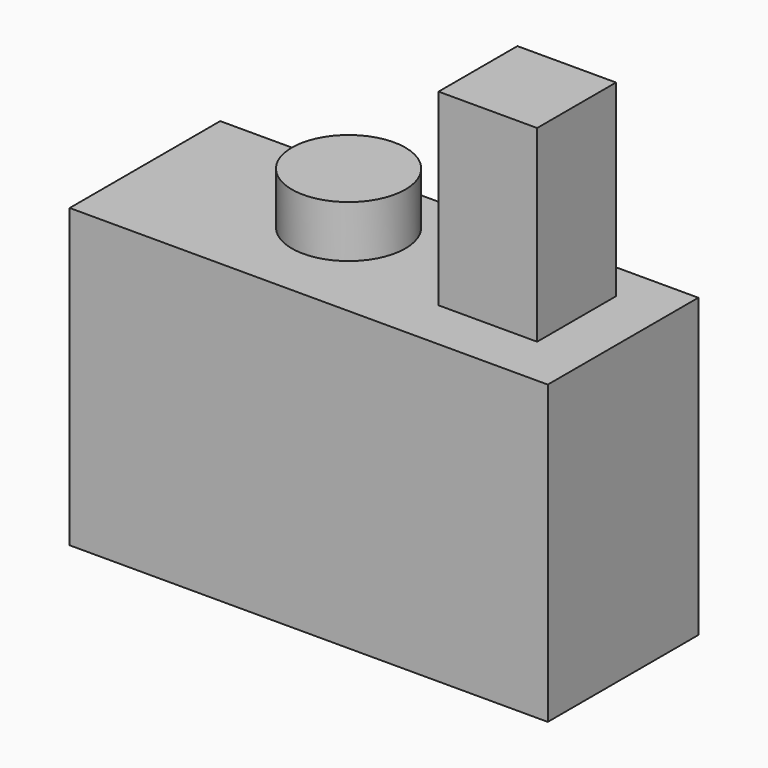
from build123d import *

# Parameters (mm, degrees)
F0_W     = 63.523911
F0_H     = 39.456863
F1_DEPTH = 25
F2_R     = 7.543039
F3_DEPTH = 6.9
F4_W     = 13.097714
F4_H     = 13.097714
F5_DEPTH = 25


with BuildPart() as f1:
    # F0 (on Front) → F1 (new body)
    with BuildSketch(Plane.XZ):
        with Locations((31.761955, -19.728431)):
            Rectangle(F0_W, F0_H)
    extrude(amount=F1_DEPTH)

    # F2 (on face) → F3 (join)
    with BuildSketch(Plane.XY):
        with Locations((25.3403, -10.352623)):
            Circle(F2_R)
    extrude(amount=F3_DEPTH)

    # F4 (on face) → F5 (join)
    with BuildSketch(Plane.XY):
        with Locations((50.098749, -11.624221)):
            Rectangle(F4_W, F4_H)
    extrude(amount=F5_DEPTH)


solid = f1.part
